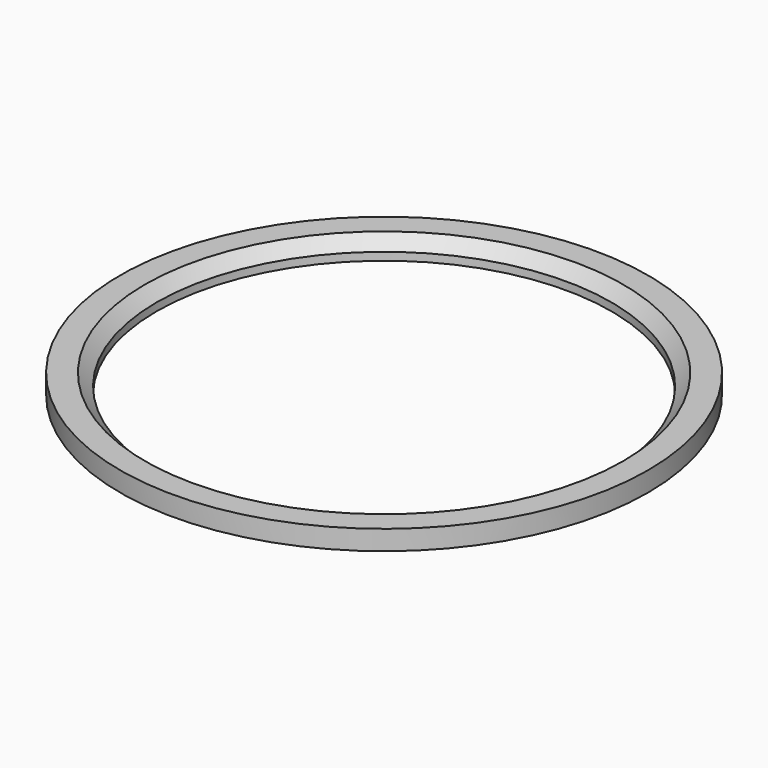
from build123d import *

# Parameters (mm, degrees)
SKETCH_R     = 42.545
SKETCH_R_2   = 36.6395
PAD_DEPTH    = 3.175
CHAMFER_SIZE = 1.905


with BuildPart() as part:
    # Sketch → Pad (new body)
    with BuildSketch(Plane.XY):
        Circle(SKETCH_R)
        Circle(SKETCH_R_2, mode=Mode.SUBTRACT)
    extrude(amount=PAD_DEPTH)

    # Chamfer
    chamfer_edges = [part.edges().sort_by_distance(p)[0] for p in [
        (-36.6395, 0, 3.175),
    ]]
    chamfer(chamfer_edges, length=CHAMFER_SIZE)


solid = part.part
